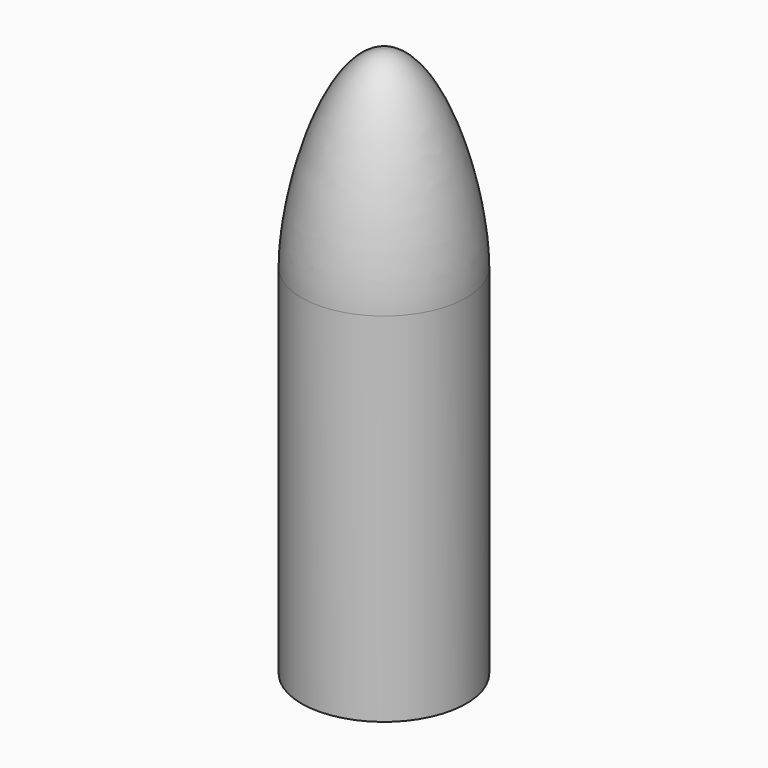
from build123d import *

# Parameters (mm, degrees)
F4_DEPTH = 45


with BuildPart() as f1:
    # F0 (on Front) → F1 (revolve)
    with BuildSketch(Plane.XZ):
        with BuildLine():
            add(Edge.make_bspline(
                [(-12, 198.434472), (-11.972872, 208.208486), (-6.910705, 226.343604), (0, 226.32459)],
                knots=[0, 0, 0, 0, 30.362126, 30.362126, 30.362126, 30.362126], degree=3))
            Line((-12, 198.434472), (-12, 146.32459))
            Line((-12, 146.32459), (-6, 146.32459))
            Line((-6, 146.32459), (0, 196.32459))
            Line((0, 196.32459), (0, 226.32459))
        make_face()
        Polygon((0, 196.32459), (-6, 146.32459), (0, 146.32459), align=None)
    revolve(axis=Axis((0, 0, 119.052783), (0, 0, 1)))


with BuildPart() as f4:
    # F3 (on offset) → F4 (new body)
    with BuildSketch(Plane(origin=(0, 0, 146.32459), x_dir=(1, 0, 0), z_dir=(0, 0, -1))):
        with BuildLine():
            Line((0, -16.173847), (0, -12))
            ThreePointArc((0, -12), (-2.833847, -11.660588), (-5.507387, -10.661552))
            Line((-5.507387, -10.661552), (-1.755127, -16.173847))
            Line((-1.755127, -16.173847), (0, -16.173847))
        make_face()
        Polygon((-1.755127, -16.173847), (-5.507387, -10.661552), (-4.093877, -16.173847), align=None)
    extrude(amount=-F4_DEPTH)


solid = Compound([f1.part, f4.part])
